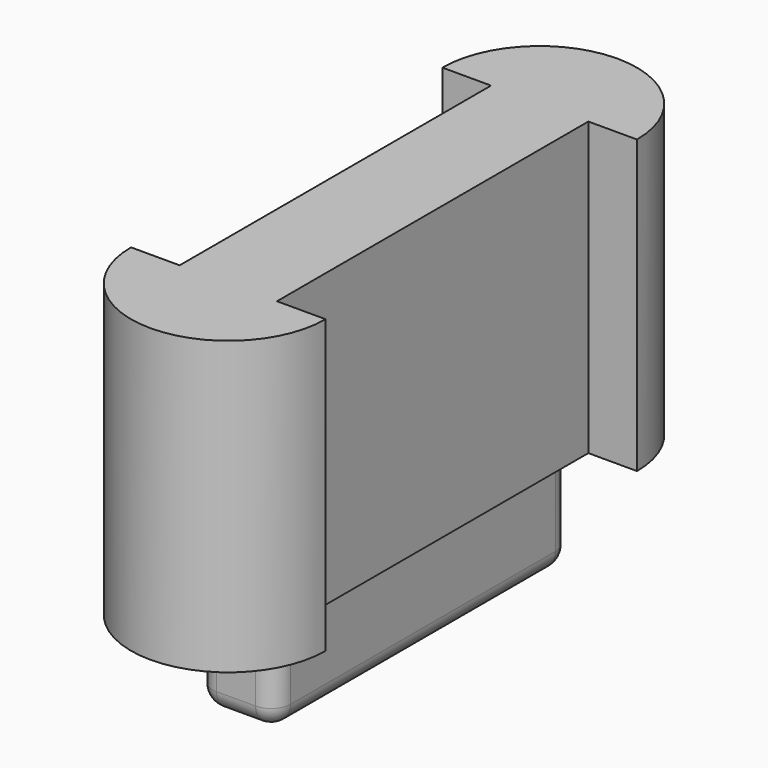
from build123d import *

# Parameters (mm, degrees)
CYLINDER045_R                = 0.6
CYLINDER045_DEPTH            = 10
CYLINDER044_R                = 0.6
CYLINDER044_DEPTH            = 2
CYLINDER044_ROLL_ANGLE       = 90
SKETCH016_R                  = 0.6
SWEEP007_PITCH_ANGLE         = 90
SKETCH014_R                  = 0.6
SWEEP006_ROLL_ANGLE          = -90
SKETCH018_R                  = 0.6
SWEEP008_ROLL_ANGLE          = -89.995832
SWEEP008_PITCH_ANGLE         = -0.004169
SWEEP008_PLACEMENT_ANGLE     = 90.008336
CYLINDER018_W                = 5
CYLINDER018_H                = 15
CYLINDER018_ANGLE            = 180
CYLINDER019_W                = 5
CYLINDER019_H                = 15
CYLINDER019_ANGLE            = 180
CYLINDER043_R                = 0.75
CYLINDER043_DEPTH            = 10
CYLINDER042_R                = 0.75
CYLINDER042_DEPTH            = 10
BOX019_W                     = 4
BOX019_H                     = 19
BOX019_DEPTH                 = 5
FILLET004_R                  = 1
FILLET005_R                  = 1
FILLET006_R                  = 1
FILLET007_R                  = 1
BOX018_W                     = 5
BOX018_H                     = 20
BOX018_DEPTH                 = 15
FUSION002013_PLACEMENT_ANGLE = 180


with BuildPart() as cilindro045:
    # Cylinder045 → Cylinder045 (new body)
    with BuildSketch(Plane(origin=(22, -4, -17), x_dir=(1, 0, 0), z_dir=(0, 0, 1))):
        Circle(CYLINDER045_R)
    extrude(amount=CYLINDER045_DEPTH)


with BuildPart() as cilindro044:
    # Cylinder044 → Cylinder044 (new body)
    with BuildSketch(Plane.XY):
        Circle(CYLINDER044_R)
    extrude(amount=CYLINDER044_DEPTH)


with BuildPart() as cilindro044_1:
    # Cylinder044 roll: moved
    add(cilindro044.part.rotate(Axis((0, 0, 0), (1, 0, 0)), CYLINDER044_ROLL_ANGLE))


with BuildPart() as cilindro044_2:
    # Cylinder044 placement: moved
    add(cilindro044_1.part.moved(Location((22, -8, -4))))


with BuildPart() as sweep007:
    # Sweep007: sweep along a path in Sketch015
    with BuildLine(Plane.XY) as sweep007_path:
        Line((0, 0), (2.000007, 0))
        ThreePointArc((2.000007, 0), (3.413537, 0.585387), (3.999404, 1.998718))
        Line((3.999404, 1.998718), (3.999404, 3.99963))
    # Sketch016 → Sweep007 (sweep)
    with BuildSketch(Plane.YZ):
        Circle(SKETCH016_R)
    sweep(path=sweep007_path.line, transition=Transition.RIGHT)


with BuildPart() as sweep007_1:
    # Sweep007 pitch: moved
    add(sweep007.part.rotate(Axis((0, 0, 0), (0, 1, 0)), SWEEP007_PITCH_ANGLE))


with BuildPart() as sweep007_2:
    # Sweep007 placement: moved
    add(sweep007_1.part.moved(Location((22, -13, 0))))


with BuildPart() as sweep006:
    # Sweep006: sweep along a path in Sketch013
    with BuildLine(Plane.XY) as sweep006_path:
        Line((0, 0), (2.000007, 0))
        ThreePointArc((2.000007, 0), (3.413537, 0.585387), (3.999404, 1.998718))
        Line((3.999404, 1.998718), (3.999404, 3.99963))
    # Sketch014 → Sweep006 (sweep)
    with BuildSketch(Plane.YZ):
        Circle(SKETCH014_R)
    sweep(path=sweep006_path.line, transition=Transition.RIGHT)


with BuildPart() as sweep006_1:
    # Sweep006 roll: moved
    add(sweep006.part.rotate(Axis((0, 0, 0), (1, 0, 0)), SWEEP006_ROLL_ANGLE))


with BuildPart() as sweep006_2:
    # Sweep006 placement: moved
    add(sweep006_1.part.moved(Location((18, -13, 3))))


with BuildPart() as fusion002014:
    # Sweep008: sweep along a path in Sketch017
    with BuildLine(Plane.XY) as sweep008_path:
        Line((0, 0), (2.000007, 0))
        ThreePointArc((2.000007, 0), (3.413537, 0.585387), (3.999404, 1.998718))
        Line((3.999404, 1.998718), (3.999404, 3.99963))
    # Sketch018 → Sweep008 (sweep)
    with BuildSketch(Plane.YZ):
        Circle(SKETCH018_R)
    sweep(path=sweep008_path.line, transition=Transition.RIGHT)


with BuildPart() as fusion002014_1:
    # Sweep008 roll: moved
    add(fusion002014.part.rotate(Axis((0, 0, 0), (1, 0, 0)), SWEEP008_ROLL_ANGLE))


with BuildPart() as fusion002014_2:
    # Sweep008 pitch: moved
    add(fusion002014_1.part.rotate(Axis((0, 0, 0), (0, 1, 0)), SWEEP008_PITCH_ANGLE))


with BuildPart() as fusion002014_3:
    # Sweep008 placement: moved
    add(fusion002014_2.part.moved(Location((22, -8, -4))).rotate(Axis((22, -8, -4), (0, 0, 1)), SWEEP008_PLACEMENT_ANGLE))

    # Fusion002014: union Cilindro045, Cilindro044, Sweep007, Sweep006
    add(cilindro045.part)
    add(cilindro044_2.part)
    add(sweep007_2.part)
    add(sweep006_2.part)


with BuildPart() as fusion002014_4:
    # Fusion002014 placement: moved
    add(fusion002014_3.part.moved(Location((-1.1, 0, 0))))


with BuildPart() as cilindro018:
    # Cylinder018 → Cylinder018 (revolve)
    with BuildSketch(Plane(origin=(21.5, 76, -4), x_dir=(1, 0, 0), z_dir=(0, -1, 0))):
        with Locations((2.5, 7.5)):
            Rectangle(CYLINDER018_W, CYLINDER018_H)
    revolve(axis=Axis((21.5, 76, -4), (0, 0, 1)), revolution_arc=CYLINDER018_ANGLE)


with BuildPart() as cilindro019:
    # Cylinder019 → Cylinder019 (revolve)
    with BuildSketch(Plane(origin=(21.5, 56, 11), x_dir=(1, 0, 0), z_dir=(0, 1, 0))):
        with Locations((2.5, 7.5)):
            Rectangle(CYLINDER019_W, CYLINDER019_H)
    revolve(axis=Axis((21.5, 56, 11), (0, 0, -1)), revolution_arc=CYLINDER019_ANGLE)


with BuildPart() as cilindro043:
    # Cylinder043 → Cylinder043 (new body)
    with BuildSketch(Plane(origin=(-39, 66, 48), x_dir=(1, 0, 0), z_dir=(0, 0, 1))):
        Circle(CYLINDER043_R)
    extrude(amount=CYLINDER043_DEPTH)


with BuildPart() as cilindro042:
    # Cylinder042 → Cylinder042 (new body)
    with BuildSketch(Plane(origin=(-39, 53, 48), x_dir=(1, 0, 0), z_dir=(0, 0, 1))):
        Circle(CYLINDER042_R)
    extrude(amount=CYLINDER042_DEPTH)


with BuildPart() as cut063:
    # Box019 → Box019 (new body)
    with BuildSketch(Plane(origin=(-2, 50, 45), x_dir=(1, 0, 0), z_dir=(0, 0, 1))):
        with Locations((2, 9.5)):
            Rectangle(BOX019_W, BOX019_H)
    extrude(amount=BOX019_DEPTH)

    # Fillet004
    fillet004_edges = [cut063.edges().sort_by_distance(p)[0] for p in [
        (2, 59.5, 50),
    ]]
    fillet(fillet004_edges, radius=FILLET004_R)

    # Fillet005
    fillet005_edges = [cut063.edges().sort_by_distance(p)[0] for p in [
        (-2, 59.5, 50),
    ]]
    fillet(fillet005_edges, radius=FILLET005_R)

    # Fillet006
    fillet006_edges = [cut063.edges().sort_by_distance(p)[0] for p in [
        (0, 69, 50),
    ]]
    fillet(fillet006_edges, radius=FILLET006_R)

    # Fillet007
    fillet007_edges = [cut063.edges().sort_by_distance(p)[0] for p in [
        (0, 50, 50),
    ]]
    fillet(fillet007_edges, radius=FILLET007_R)


with BuildPart() as cut063_1:
    # Fillet007 placement: moved
    add(cut063.part.moved(Location((-39, 0, 0))))

    # Cut062: cut Cilindro042
    add(cilindro042.part, mode=Mode.SUBTRACT)

    # Cut063: cut Cilindro043
    add(cilindro043.part, mode=Mode.SUBTRACT)


with BuildPart() as cut063_2:
    # Cut063 placement: moved
    add(cut063_1.part.moved(Location((60.5, 6.5, -34))))


with BuildPart() as cut064:
    # Box018 → Box018 (new body)
    with BuildSketch(Plane(origin=(19, 56, -4), x_dir=(1, 0, 0), z_dir=(0, 0, 1))):
        with Locations((2.5, 10)):
            Rectangle(BOX018_W, BOX018_H)
    extrude(amount=BOX018_DEPTH)

    # Fusion002013: union Cilindro018, Cilindro019, Cut063
    add(cilindro018.part)
    add(cilindro019.part)
    add(cut063_2.part)


with BuildPart() as cut064_1:
    # Fusion002013 placement: moved
    add(cut064.part.moved(Location((42.4, -76.5, 1))).rotate(Axis((42.4, -76.5, 1), (0, 1, 0)), FUSION002013_PLACEMENT_ANGLE))

    # Cut064: cut Fusion002014
    add(fusion002014_4.part, mode=Mode.SUBTRACT)


solid = cut064_1.part
